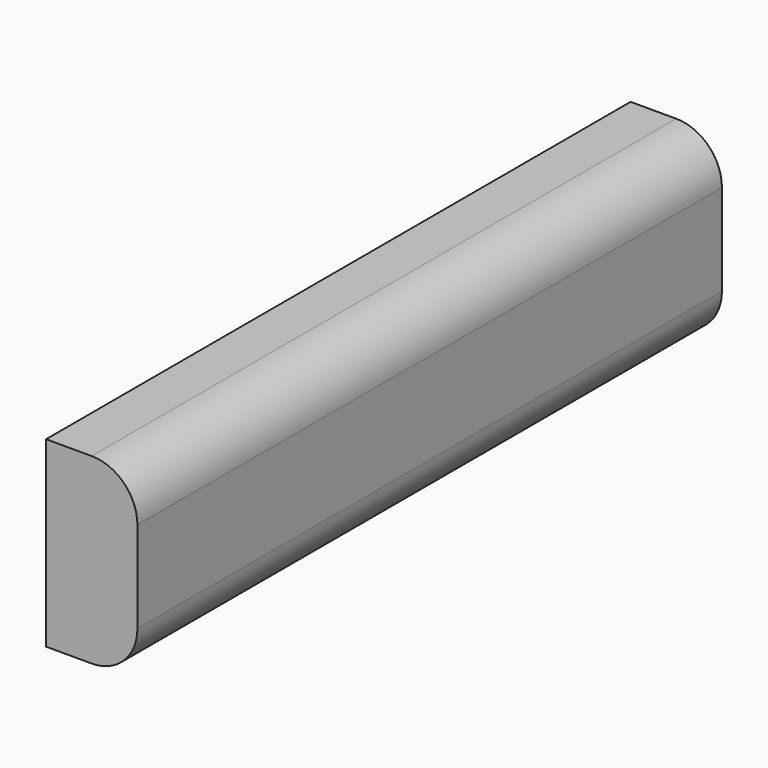
from build123d import *

# Parameters (mm, degrees)
F1_DEPTH = 152.4


with BuildPart() as f1:
    # F0 (on Front) → F1 (new body)
    with BuildSketch(Plane.XZ):
        with BuildLine():
            Line((-9.524746, 19.049543), (-9.524746, -19.049517))
            Line((-9.524746, -19.049517), (0, -19.049517))
            ThreePointArc((0, -19.049517), (6.73503, -16.259776), (9.524771, -9.524746))
            Line((9.524771, -9.524746), (9.524771, 9.524771))
            ThreePointArc((9.524771, 9.524771), (6.73503, 16.259802), (0, 19.049543))
            Line((0, 19.049543), (-9.524746, 19.049543))
        make_face()
    extrude(amount=F1_DEPTH)


solid = f1.part
